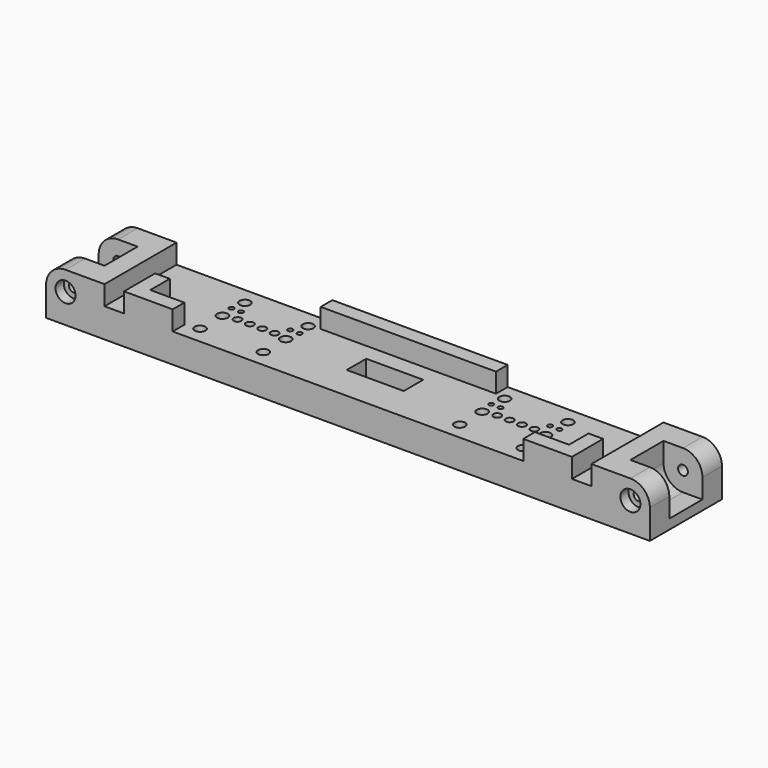
from build123d import *

# Parameters (mm, degrees)
SKETCH_W            = 124
SKETCH_H            = 18.5
SKETCH_R            = 0.5
PAD_DEPTH           = 6
HOLE_D              = 0.7
HOLE_DEPTH          = 25
HOLE_CBORE_D        = 1.6
HOLE_CBORE_DEPTH    = 2.1
CHAMFER_SIZE        = 0.2
SKETCH002_W         = 12
SKETCH002_H         = 18.5
SKETCH002_W_2       = 36
SKETCH002_H_2       = 3
PAD001_DEPTH        = 4
CHAMFER001_SIZE     = 0.4
SKETCH003_R         = 1.1
POCKET_DEPTH        = 10.001
CHAMFER002_SIZE     = 0.7
SKETCH004_W         = 8
SKETCH004_H         = 8.5
POCKET001_DEPTH     = 8
HOLE003_D           = 2
HOLE003_CBORE_D     = 4.1
HOLE003_CBORE_DEPTH = 2.1
FILLET_R            = 4
POCKET002_DEPTH     = 2.1
SKETCH022_W         = 11.69728
SKETCH022_H         = 8
POCKET005_DEPTH     = 3
SKETCH023_W         = 11.69728
SKETCH023_H         = 5
POCKET006_DEPTH     = 5


with BuildPart() as part:
    # Sketch → Pad (new body)
    with BuildSketch(Plane(origin=(0, 0, 0), x_dir=(-1, 0, 0), z_dir=(0, 0, -1))):
        with Locations((0, -6.75)):
            Rectangle(SKETCH_W, SKETCH_H)
        with Locations((-33.67, -3.81)):
            Circle(SKETCH_R, mode=Mode.SUBTRACT)
        with Locations((-31.745, -3.81)):
            Circle(SKETCH_R, mode=Mode.SUBTRACT)
        with Locations((-21.595, -3.81)):
            Circle(SKETCH_R, mode=Mode.SUBTRACT)
        with Locations((-19.67, -3.81)):
            Circle(SKETCH_R, mode=Mode.SUBTRACT)
        with Locations((19.67, -3.81)):
            Circle(SKETCH_R, mode=Mode.SUBTRACT)
        with Locations((21.595, -3.81)):
            Circle(SKETCH_R, mode=Mode.SUBTRACT)
        with Locations((31.745, -3.81)):
            Circle(SKETCH_R, mode=Mode.SUBTRACT)
        with Locations((33.67, -3.81)):
            Circle(SKETCH_R, mode=Mode.SUBTRACT)
    extrude(amount=PAD_DEPTH)

    # Hole
    with Locations(Plane.XY):
        with Locations((-30.48, -6.25), (-27.94, -6.25), (-25.4, -6.25), (-22.86, -6.25), (22.86, -6.25), (25.4, -6.25), (27.94, -6.25), (30.48, -6.25)):
            CounterBoreHole(HOLE_D / 2, HOLE_CBORE_D / 2, HOLE_CBORE_DEPTH, depth=HOLE_DEPTH)

    # Chamfer
    chamfer_edges = [part.edges().sort_by_distance(p)[0] for p in [
        (30.13, -6.25, -2.1),
        (27.59, -6.25, -2.1),
        (25.05, -6.25, -2.1),
        (22.51, -6.25, -2.1),
        (-30.83, -6.25, -2.1),
        (-28.29, -6.25, -2.1),
        (-25.75, -6.25, -2.1),
        (-23.21, -6.25, -2.1),
    ]]
    chamfer(chamfer_edges, length=CHAMFER_SIZE)

    # Sketch002 (on Face25 of Chamfer) → Pad001 (join)
    with BuildSketch(Plane.XY):
        with Locations((-56, -6.75)):
            Rectangle(SKETCH002_W, SKETCH002_H)
        with Locations((56, -6.75)):
            Rectangle(SKETCH002_W, SKETCH002_H)
        with Locations((0, 1)):
            Rectangle(SKETCH002_W_2, SKETCH002_H_2)
        Polygon((-46, -16), (-46, -8), (-43, -8), (-43, -13), (-36, -13), (-36, -16), align=None)
        Polygon((46, -16), (46, -8), (43, -8), (43, -13), (36, -13), (36, -16), align=None)
    extrude(amount=PAD001_DEPTH)

    # Chamfer001
    chamfer001_edges = [part.edges().sort_by_distance(p)[0] for p in [
        (34.17, -3.81, -6),
        (32.245, -3.81, -6),
        (22.095, -3.81, -6),
        (20.17, -3.81, -6),
        (-19.17, -3.81, -6),
        (-21.095, -3.81, -6),
        (-31.245, -3.81, -6),
        (-33.17, -3.81, -6),
    ]]
    chamfer(chamfer001_edges, length=CHAMFER001_SIZE)

    # Sketch003 (on Face23 of Chamfer001) → Pocket (cut, through all)
    with BuildSketch(Plane.XY.offset(4)):
        with Locations((-33.17, -1)):
            Circle(SKETCH003_R)
        with Locations((-20.17, -1)):
            Circle(SKETCH003_R)
        with Locations((-33.17, -6.75)):
            Circle(SKETCH003_R)
        with Locations((-20.17, -6.75)):
            Circle(SKETCH003_R)
        with Locations((-20.17, -12.5)):
            Circle(SKETCH003_R)
        with Locations((-33.17, -12.5)):
            Circle(SKETCH003_R)
        with Locations((20.17, -1)):
            Circle(SKETCH003_R)
        with Locations((33.17, -1)):
            Circle(SKETCH003_R)
        with Locations((20.17, -6.75)):
            Circle(SKETCH003_R)
        with Locations((33.17, -6.75)):
            Circle(SKETCH003_R)
        with Locations((33.17, -12.5)):
            Circle(SKETCH003_R)
        with Locations((20.17, -12.5)):
            Circle(SKETCH003_R)
    extrude(amount=-POCKET_DEPTH, mode=Mode.SUBTRACT)

    # Chamfer002
    chamfer002_edges = [part.edges().sort_by_distance(p)[0] for p in [
        (19.07, -6.75, -6),
        (19.07, -1, -6),
        (19.07, -12.5, -6),
        (32.07, -12.5, -6),
        (32.07, -6.75, -6),
        (32.07, -1, -6),
        (-34.27, -1, -6),
        (-34.27, -6.75, -6),
        (-34.27, -12.5, -6),
        (-21.27, -12.5, -6),
        (-21.27, -6.75, -6),
        (-21.27, -1, -6),
    ]]
    chamfer(chamfer002_edges, length=CHAMFER002_SIZE)

    # Sketch004 (on Face35 of Chamfer002) → Pocket001 (cut)
    with BuildSketch(Plane.XY.offset(4)):
        with Locations((-58, -6.75)):
            Rectangle(SKETCH004_W, SKETCH004_H)
        with Locations((58, -6.75)):
            Rectangle(SKETCH004_W, SKETCH004_H)
    extrude(amount=-POCKET001_DEPTH, mode=Mode.SUBTRACT)

    # Hole003 (through all)
    with Locations(Plane.XZ.offset(16)):
        with Locations((-58, 0), (58, 0)):
            CounterBoreHole(HOLE003_D / 2, HOLE003_CBORE_D / 2, HOLE003_CBORE_DEPTH)

    # Fillet
    fillet_edges = [part.edges().sort_by_distance(p)[0] for p in [
        (-62, 0, 4),
        (-62, -13.5, 4),
        (62, 0, 4),
        (62, -13.5, 4),
        (54, -6.75, -4),
        (-54, -6.75, -4),
    ]]
    fillet(fillet_edges, radius=FILLET_R)

    # Sketch015 (on Face1 of Fillet) → Pocket002 (cut)
    with BuildSketch(Plane(origin=(0, 2.5, 0), x_dir=(-1, 0, 0), z_dir=(0, 1, 0))):
        Polygon((-56.845299, 2), (-59.154701, 2), (-60.309401, 0), (-59.154701, -2), (-56.845299, -2), (-55.690599, 0), align=None)
        Polygon((55.690599, 0), (56.845299, -2), (59.154701, -2), (60.309401, 0), (59.154701, 2), (56.845299, 2), align=None)
    extrude(amount=-POCKET002_DEPTH, mode=Mode.SUBTRACT)

    # Sketch022 (on Face4 of Pocket002) → Pocket005 (cut)
    with BuildSketch(Plane(origin=(0, 0, -6), x_dir=(1, 0, 0), z_dir=(0, 0, -1))):
        with Locations((0, 8)):
            Rectangle(SKETCH022_W, SKETCH022_H)
    extrude(amount=-POCKET005_DEPTH, mode=Mode.SUBTRACT)

    # Sketch023 (on Face122 of Pocket005) → Pocket006 (cut)
    with BuildSketch(Plane(origin=(0, 0, -3), x_dir=(1, 0, 0), z_dir=(0, 0, -1))):
        with Locations((0, 6.5)):
            Rectangle(SKETCH023_W, SKETCH023_H)
    extrude(amount=-POCKET006_DEPTH, mode=Mode.SUBTRACT)


solid = part.part
